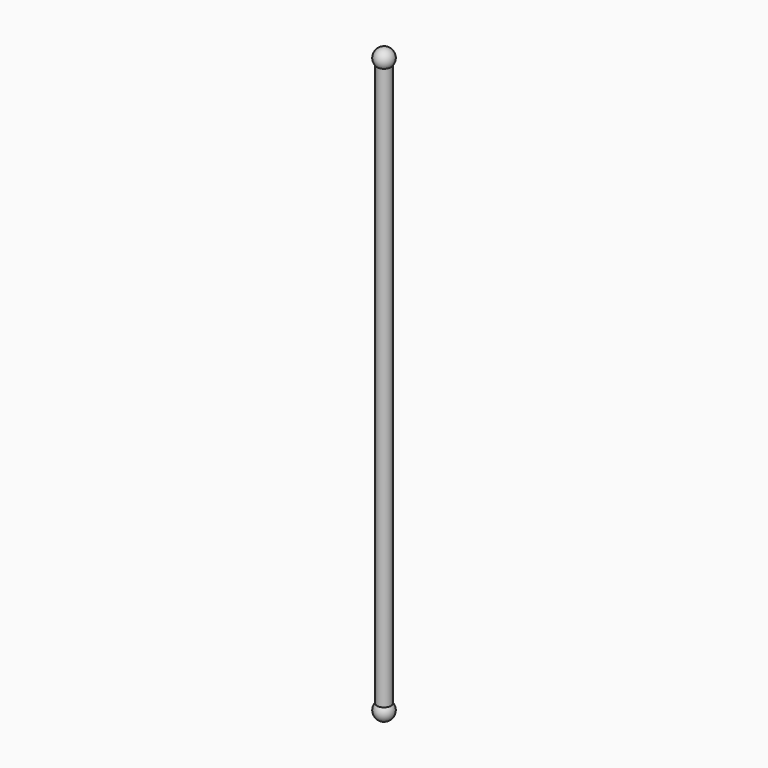
from build123d import *

# Parameters (mm, degrees)
F0_R     = 3.8
F1_DEPTH = 305


with BuildPart() as f1:
    # F0 (on Top) → F1 (new body)
    with BuildSketch(Plane.XY):
        Circle(F0_R)
    extrude(amount=F1_DEPTH)

    # F3 (on offset) → F4 (revolve)
    with BuildSketch(Plane.XY.offset(308)):
        with BuildLine():
            Line((0, -5), (0, 5))
            ThreePointArc((0, 5), (-5, 0), (0, -5))
        make_face()
    revolve(axis=Axis((0, 0, 308), (0, -1, 0)))

    # F6 (on offset) → F7 (revolve)
    with BuildSketch(Plane(origin=(0, 0, -3), x_dir=(1, 0, 0), z_dir=(0, 0, -1))):
        with BuildLine():
            Line((0, -5), (0, 5))
            ThreePointArc((0, 5), (-5, 0), (0, -5))
        make_face()
    revolve(axis=Axis((0, 0, -3), (0, 1, 0)))


solid = f1.part
